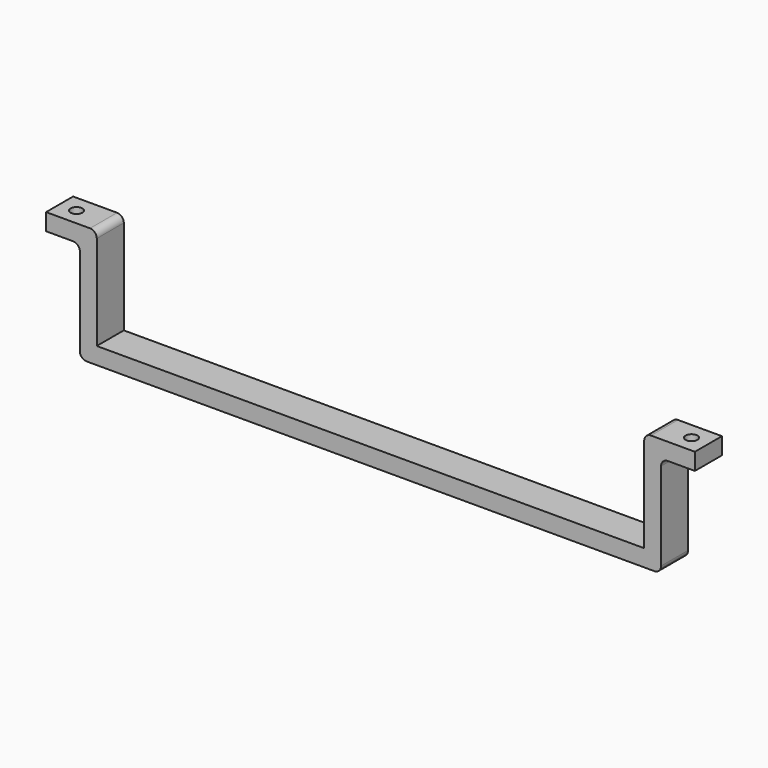
from build123d import *

# Parameters (mm, degrees)
F0_W     = 10
F0_H     = 5
F0_W_2   = 81
F1_DEPTH = 10
F2_R     = 1.75
F3_DEPTH = 35.001
F4_R     = 2


with BuildPart() as f1:
    # F0 (on Front) → F1 (new body)
    with BuildSketch(Plane.XZ):
        with Locations((-91, 32.5)):
            Rectangle(F0_W, F0_H)
        Polygon((-86, 0), (-81, 0), (-81, 5), (-81, 35), (-86, 35), (-86, 30), align=None)
        with Locations((-40.5, 2.5)):
            Rectangle(F0_W_2, F0_H)
    extrude(amount=F1_DEPTH)

    # F2 (on face) → F3 (cut, through all)
    with BuildSketch(Plane.XY.offset(35)):
        with Locations((-91, -5)):
            Circle(F2_R)
    extrude(amount=-F3_DEPTH, mode=Mode.SUBTRACT)

    # F4
    f4_edges = [f1.edges().sort_by_distance(p)[0] for p in [
        (-81, -5, 35),
        (-86, -5, 30),
        (-86, -5, 0),
    ]]
    fillet(f4_edges, radius=F4_R)

    # F5: F1 across plane


with BuildPart() as f1_1:
    add(f1.part)
    add(f1.part.mirror(Plane.YZ))


solid = f1_1.part
